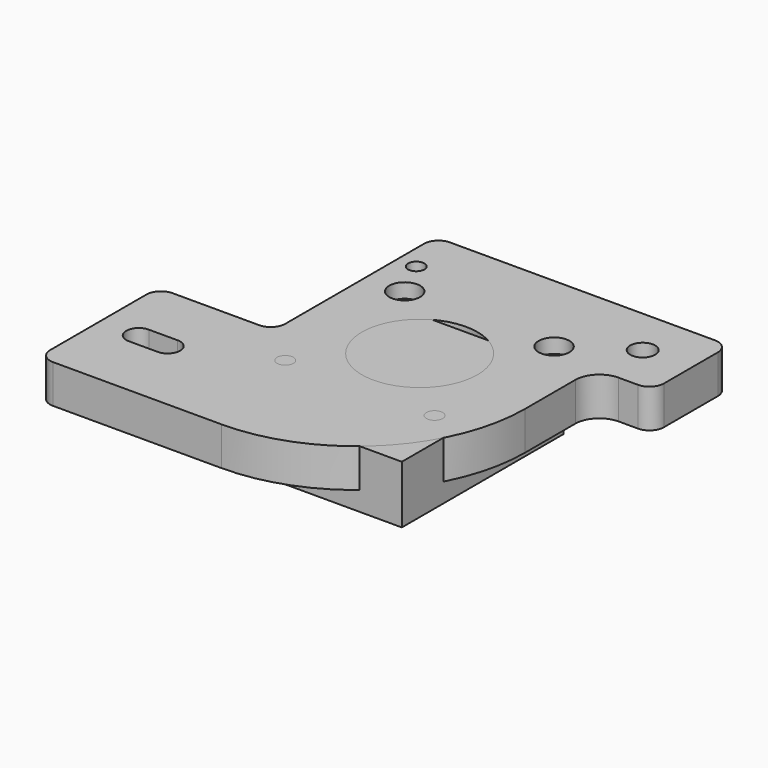
from build123d import *

# Parameters (mm, degrees)
BOX001_W        = 42
BOX001_H        = 42
BOX001_DEPTH    = 12
BOX_W           = 85
BOX_H           = 73
BOX_DEPTH       = 8
SKETCH_R        = 1.7
SKETCH_R_2      = 12
SKETCH_R_3      = 2.6
SKETCH_W        = 24
SKETCH_H        = 42
POCKET_DEPTH    = 8
SKETCH001_R     = 3.2
POCKET001_DEPTH = 3
FILLET_R        = 35
FILLET001_R     = 3


with BuildPart() as nema:
    # Box001 → Box001 (new body)
    with BuildSketch(Plane(origin=(27, 8, -4), x_dir=(1, 0, 0), z_dir=(0, 0, 1))):
        with Locations((21, 21)):
            Rectangle(BOX001_W, BOX001_H)
    extrude(amount=BOX001_DEPTH)


with BuildPart() as fillet001:
    # Box → Box (new body)
    with BuildSketch(Plane.XY):
        with Locations((42.5, 36.5)):
            Rectangle(BOX_W, BOX_H)
    extrude(amount=BOX_DEPTH)

    # Sketch → Pocket (cut)
    with BuildSketch(Plane.XY.offset(8)):
        with Locations((32, 55)):
            Circle(SKETCH_R)
        with Locations((63, 55)):
            Circle(SKETCH_R)
        with Locations((63, 24)):
            Circle(SKETCH_R)
        with Locations((32, 24)):
            Circle(SKETCH_R)
        with Locations((47.5, 39.5)):
            Circle(SKETCH_R_2)
        with Locations((28, 63)):
            Circle(SKETCH_R)
        with Locations((75, 63)):
            Circle(SKETCH_R_3)
        with Locations((12, 52)):
            Rectangle(SKETCH_W, SKETCH_H)
        with BuildLine():
            ThreePointArc((8, 18.6), (5.4, 16), (8, 13.4))
            Line((8, 13.4), (14, 13.4))
            ThreePointArc((14, 13.4), (16.6, 16), (14, 18.6))
            Line((8, 18.6), (14, 18.6))
        make_face()
        with BuildLine():
            Line((96.2, 53), (78, 53))
            ThreePointArc((78, 53), (74.464466, 51.535534), (73, 48))
            Line((73, 48), (73, -12.2))
            Line((73, -12.2), (96.2, -12.2))
            Line((96.2, -12.2), (96.2, 53))
        make_face()
    extrude(amount=-POCKET_DEPTH, mode=Mode.SUBTRACT)

    # Sketch001 → Pocket001 (cut)
    with BuildSketch(Plane.XY.offset(8)):
        with Locations((32, 55)):
            Circle(SKETCH001_R)
        with Locations((63, 55)):
            Circle(SKETCH001_R)
    extrude(amount=-POCKET001_DEPTH, mode=Mode.SUBTRACT)

    # Fillet
    fillet_edges = [fillet001.edges().sort_by_distance(p)[0] for p in [
        (73, 0, 4),
    ]]
    fillet(fillet_edges, radius=FILLET_R)

    # Fillet001
    fillet001_edges = [fillet001.edges().sort_by_distance(p)[0] for p in [
        (24, 31, 4),
        (0, 31, 4),
        (0, 0, 4),
        (24, 73, 4),
        (85, 73, 4),
        (85, 53, 4),
    ]]
    fillet(fillet001_edges, radius=FILLET001_R)


solid = Compound([nema.part, fillet001.part])
